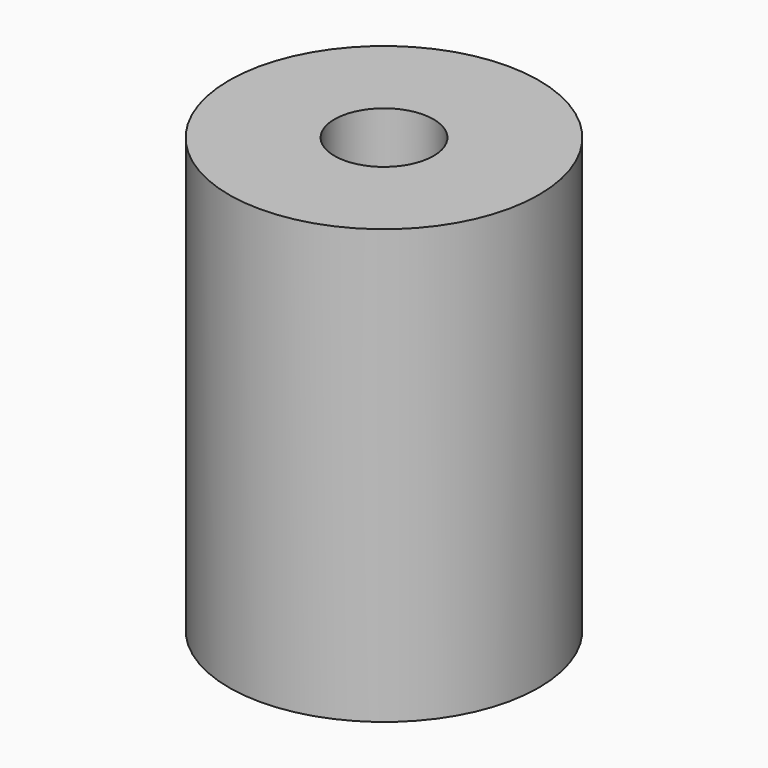
from build123d import *

# Parameters (mm, degrees)
F0_R     = 12.5
F1_DEPTH = 10
F2_R     = 12.5
F2_R_2   = 4
F3_DEPTH = 25


with BuildPart() as f1:
    # F0 (on Top) → F1 (new body)
    with BuildSketch(Plane.XY):
        with Locations((-25.3968760371, 4.9218749627)):
            Circle(F0_R)
        Polygon((-17.1604870534, 9.5548433965), (-17.2664131867, 0.1054370842), (-25.5028021704, -4.5275313495), (-33.6332650209, 0.288906529), (-33.5273388876, 9.7383128413), (-25.2909499038, 14.371281275), align=None, mode=Mode.SUBTRACT)
    extrude(amount=F1_DEPTH)

    # F2 (on face) → F3 (join)
    with BuildSketch(Plane.XY.offset(10)):
        with Locations((-25.3968760371, 4.9218749627)):
            Circle(F2_R)
        Polygon((-25.2909499038, 14.371281275), (-17.1604870534, 9.5548433965), (-17.2664131867, 0.1054370842), (-25.5028021704, -4.5275313495), (-33.6332650209, 0.288906529), (-33.5273388876, 9.7383128413), align=None, mode=Mode.SUBTRACT)
        Polygon((-17.2664131867, 0.1054370842), (-17.1604870534, 9.5548433965), (-25.2909499038, 14.371281275), (-33.5273388876, 9.7383128413), (-33.6332650209, 0.288906529), (-25.5028021704, -4.5275313495), align=None)
        with Locations((-25.3968760371, 4.9218749627)):
            Circle(F2_R_2, mode=Mode.SUBTRACT)
    extrude(amount=F3_DEPTH)


solid = f1.part
